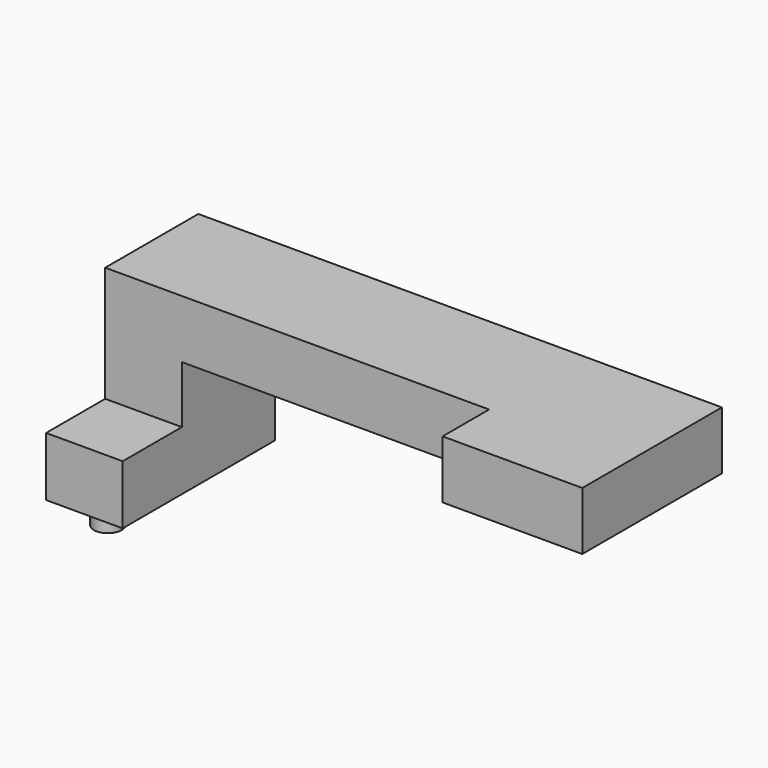
from build123d import *

# Parameters (mm, degrees)
F1_DEPTH = 25.4
F2_W     = 16.7198777199
F2_H     = 12.9023268819
F3_DEPTH = 16.1335784942
F5_W     = 30.4973670125
F5_H     = 12.7
F6_DEPTH = 12.7
F7_R     = 3.015717516
F8_DEPTH = 18.4404


with BuildPart() as f1:
    # F0 (on Front) → F1 (new body)
    with BuildSketch(Plane.XZ):
        Polygon((57.6506801724, -27.7302754164), (-56.6493198276, -27.7302754164), (-56.6493198276, -65.8302754164), (-39.9294421077, -65.8302754164), (-39.9294421077, -40.4302754164), (57.6506801724, -40.4302754164), align=None)
    extrude(amount=F1_DEPTH)

    # F2 (on face) → F3 (join)
    with BuildSketch(Plane.XZ.offset(25.4)):
        with Locations((-48.2893809676, -59.3791119754)):
            Rectangle(F2_W, F2_H)
    extrude(amount=F3_DEPTH)

    # F5 (on face) → F6 (join)
    with BuildSketch(Plane.XZ.offset(25.4)):
        with Locations((42.4019966662, -34.0802754164)):
            Rectangle(F5_W, F5_H)
    extrude(amount=F6_DEPTH)

    # F7 (on face) → F8 (join)
    with BuildSketch(Plane.XY.offset(-52.9279485345)):
        with Locations((-49.315456301, -33.8529422879)):
            Circle(F7_R)
    extrude(amount=-F8_DEPTH)


solid = f1.part
